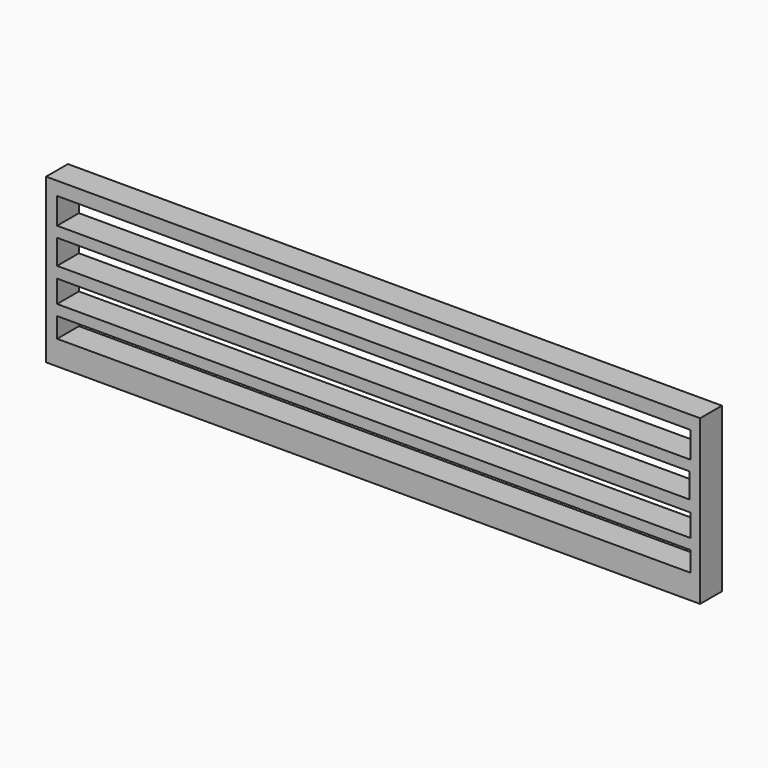
from build123d import *

# Parameters (mm, degrees)
F0_W     = 609.6
F0_H     = 152.4
F0_W_2   = 590.125203
F0_H_2   = 18.664427
F0_H_3   = 20.860233
F0_W_3   = 589.576274
F0_H_4   = 23.056053
F0_H_5   = 24.443207
F1_DEPTH = 25.4


with BuildPart() as f1:
    # F0 (on Front) → F1 (new body)
    with BuildSketch(Plane.XZ):
        with Locations((1.151223, -63.708172)):
            Rectangle(F0_W, F0_H)
        with Locations((1.700163, -107.884164)):
            Rectangle(F0_W_2, F0_H_2, mode=Mode.SUBTRACT)
        with Locations((1.700163, -78.240667)):
            Rectangle(F0_W_2, F0_H_3, mode=Mode.SUBTRACT)
        with Locations((1.425698, -45.852401)):
            Rectangle(F0_W_3, F0_H_4, mode=Mode.SUBTRACT)
        with Locations((1.700163, -12.221603)):
            Rectangle(F0_W_2, F0_H_5, mode=Mode.SUBTRACT)
    extrude(amount=F1_DEPTH)


solid = f1.part
